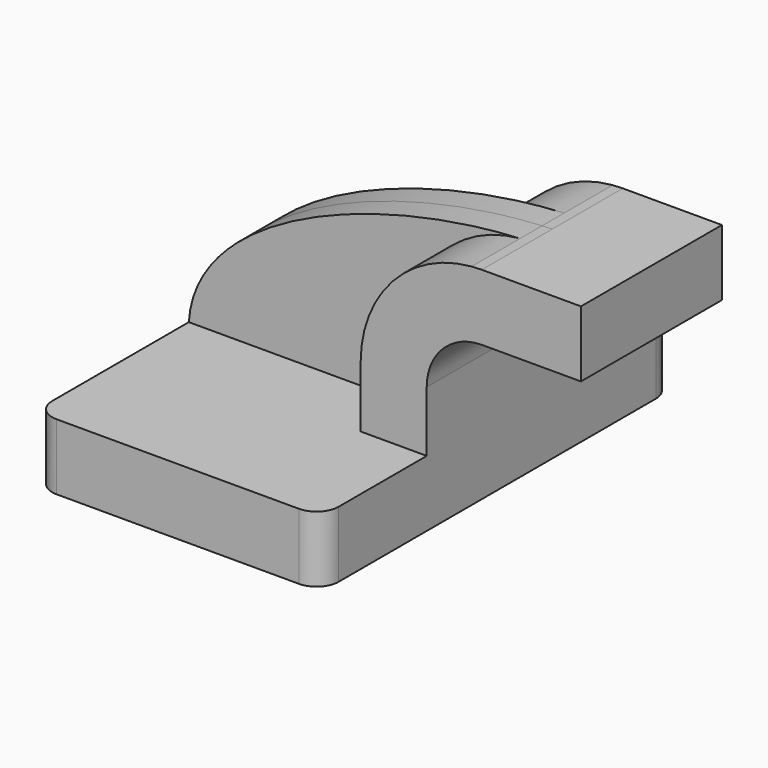
from build123d import *

# Parameters (mm, degrees)
F1_DEPTH = 63.5
F0_W     = 25.4
F0_H     = 19.05
F2_DEPTH = 25.4
F3_DEPTH = 7.9375
F4_R     = 6.35


with BuildPart() as f1:
    # F0 (on Front) → F1 (new body, symmetric)
    with BuildSketch(Plane.XZ):
        Polygon((-41.275, -9.525), (41.275, -9.525), (41.275, 9.525), (22.225, 9.525), (-41.275, 9.525), align=None)
    extrude(amount=F1_DEPTH, both=True)

    # F0 (on Front) → F2 (join, symmetric)
    with BuildSketch(Plane.XZ):
        with BuildLine():
            Line((22.225, 9.525), (41.275, 9.525))
            Line((41.275, 9.525), (41.275, 27.0002))
            ThreePointArc((41.275, 27.0002), (45.9246798487, 38.2255201513), (57.15, 42.8752))
            Line((57.15, 42.8752), (60.325, 42.8752))
            Line((60.325, 42.8752), (60.325, 61.9252))
            Line((60.325, 61.9252), (57.15, 61.9252))
            add(Edge.make_bspline(
                [(54.2163315583, 61.8017691381), (55.1991693528, 61.8523831692), (56.1772996051, 61.8935558804), (57.15, 61.9252)],
                knots=[108.9789344494, 108.9789344494, 108.9789344494, 108.9789344494, 111.5045361635, 111.5045361635, 111.5045361635, 111.5045361635], degree=3))
            ThreePointArc((54.2163315583, 61.8017691381), (31.4379989564, 50.6359489269), (22.225, 27.0002))
            Line((22.225, 27.0002), (22.225, 9.525))
        make_face()
        with Locations((73.025, 52.4002)):
            Rectangle(F0_W, F0_H)
    extrude(amount=F2_DEPTH, both=True)

    # F0 (on Front) → F3 (join, symmetric)
    with BuildSketch(Plane.XZ):
        with BuildLine():
            add(Edge.make_bspline(
                [(-41.275, 9.525), (-39.3669167173, 39.8550550116), (11.8071840745, 59.6177893167), (54.2163315583, 61.8017691381)],
                knots=[0, 0, 0, 0, 108.9789344494, 108.9789344494, 108.9789344494, 108.9789344494], degree=3))
            Line((-41.275, 9.525), (22.225, 9.525))
            Line((22.225, 9.525), (22.225, 27.0002))
            ThreePointArc((22.225, 27.0002), (31.4379989564, 50.6359489269), (54.2163315583, 61.8017691381))
        make_face()
    extrude(amount=F3_DEPTH, both=True)

    # F4
    f4_edges = [f1.edges().sort_by_distance(p)[0] for p in [
        (41.275, -63.5, 0),
        (-41.275, -63.5, 0),
        (41.275, 63.5, 0),
        (-41.275, 63.5, 0),
    ]]
    fillet(f4_edges, radius=F4_R)


solid = f1.part
